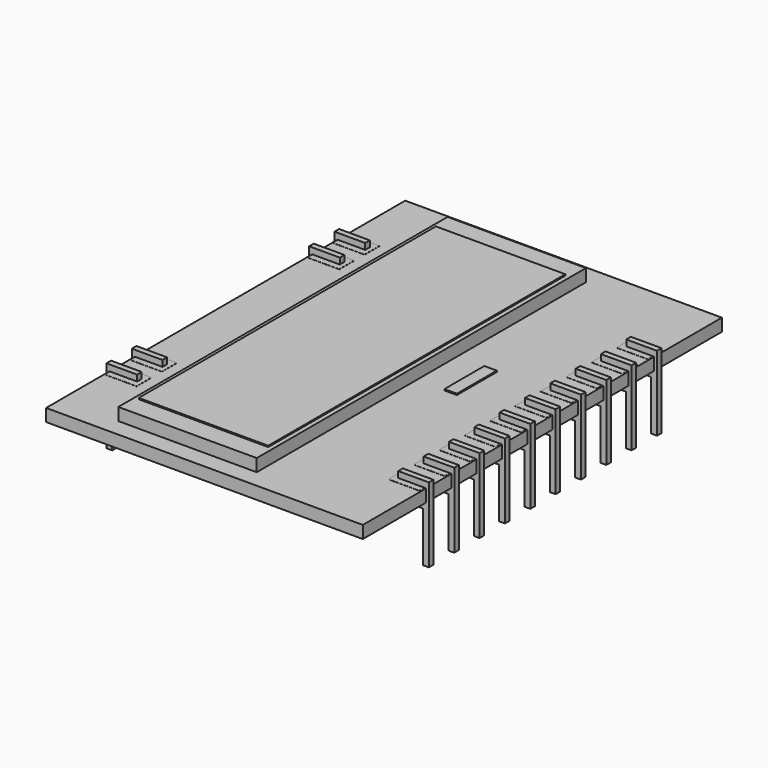
from build123d import *

# Parameters (mm, degrees)
SKETCH_W                  = 25.4
SKETCH_H                  = 36
PAD_DEPTH                 = 1
BOX_W                     = 2.5
BOX_H                     = 1.5
BOX_DEPTH                 = 0.3
PAD001_DEPTH              = 0.46
BOX001_W                  = 2.5
BOX001_H                  = 1.5
BOX001_DEPTH              = 0.3
PAD002_DEPTH              = 0.46
BOX002_W                  = 2.5
BOX002_H                  = 1.5
BOX002_DEPTH              = 0.3
PAD003_DEPTH              = 0.46
FUSION002_PLACEMENT_ANGLE = 180
BOX003_W                  = 11.1
BOX003_H                  = 33
BOX003_DEPTH              = 1.2
BOX004_W                  = 10.385
BOX004_H                  = 29.78
BOX004_DEPTH              = 0.3
BOX005_W                  = 1
BOX005_H                  = 4
BOX005_DEPTH              = 0.3
BOX006_W                  = 2.5
BOX006_H                  = 1.5
BOX006_DEPTH              = 0.3
PAD004_DEPTH              = 0.46
BOX007_W                  = 2.5
BOX007_H                  = 1.5
BOX007_DEPTH              = 0.3
PAD005_DEPTH              = 0.46
BOX008_W                  = 2.5
BOX008_H                  = 1.5
BOX008_DEPTH              = 0.3
PAD006_DEPTH              = 0.46
FUSION005_PLACEMENT_ANGLE = 180
BOX009_W                  = 2.5
BOX009_H                  = 1.5
BOX009_DEPTH              = 0.3
PAD007_DEPTH              = 0.46
FUSION006_PLACEMENT_ANGLE = 180
BOX010_W                  = 2.5
BOX010_H                  = 1.5
BOX010_DEPTH              = 0.3
PAD008_DEPTH              = 0.46
FUSION007_PLACEMENT_ANGLE = 180
BOX011_W                  = 2.5
BOX011_H                  = 1.5
BOX011_DEPTH              = 0.3
PAD009_DEPTH              = 0.46
FUSION008_PLACEMENT_ANGLE = 180
BOX012_W                  = 2.5
BOX012_H                  = 1.5
BOX012_DEPTH              = 0.3
PAD010_DEPTH              = 0.46
FUSION009_PLACEMENT_ANGLE = 180
BOX013_W                  = 2.5
BOX013_H                  = 1.5
BOX013_DEPTH              = 0.3
PAD011_DEPTH              = 0.46
FUSION010_PLACEMENT_ANGLE = 180
BOX014_W                  = 2.5
BOX014_H                  = 1.5
BOX014_DEPTH              = 0.3
PAD012_DEPTH              = 0.46
FUSION011_PLACEMENT_ANGLE = 180
BOX015_W                  = 2.5
BOX015_H                  = 1.5
BOX015_DEPTH              = 0.3
PAD013_DEPTH              = 0.46
FUSION012_PLACEMENT_ANGLE = 180
BOX016_W                  = 2.5
BOX016_H                  = 1.5
BOX016_DEPTH              = 0.3
PAD014_DEPTH              = 0.46
FUSION013_PLACEMENT_ANGLE = 180


with BuildPart() as body:
    # Sketch → Pad (new body)
    with BuildSketch(Plane.XY):
        with Locations((12.7, -11.43)):
            Rectangle(SKETCH_W, SKETCH_H)
    extrude(amount=PAD_DEPTH)


with BuildPart() as kub:
    # Box → Box (new body)
    with BuildSketch(Plane(origin=(0.1, -0.75, 0.71), x_dir=(1, 0, 0), z_dir=(0, 0, 1))):
        with Locations((1.25, 0.75)):
            Rectangle(BOX_W, BOX_H)
    extrude(amount=BOX_DEPTH)


with BuildPart() as pin001:
    # Sketch001 → Pad001 (new body)
    with BuildSketch(Plane.XZ):
        Polygon((2.23, 0.5), (2.23, 1), (-0.23, 1), (-0.23, -5), (0.23, -5), (0.23, -1), (2.23, -1), (2.23, -0.5), (0.23, -0.5), (0.23, 0.5), align=None)
    extrude(amount=PAD001_DEPTH)


with BuildPart() as pin001_1:
    # Body001 placement: moved
    add(pin001.part.moved(Location((0, 0.23, 0.5))))

    # Fusion: union Kub
    add(kub.part)


with BuildPart() as kub001:
    # Box001 → Box001 (new body)
    with BuildSketch(Plane(origin=(0.1, -0.75, 0.71), x_dir=(1, 0, 0), z_dir=(0, 0, 1))):
        with Locations((1.25, 0.75)):
            Rectangle(BOX001_W, BOX001_H)
    extrude(amount=BOX001_DEPTH)


with BuildPart() as pin009:
    # Sketch002 → Pad002 (new body)
    with BuildSketch(Plane.XZ):
        Polygon((2.23, 0.5), (2.23, 1), (-0.23, 1), (-0.23, -5), (0.23, -5), (0.23, -1), (2.23, -1), (2.23, -0.5), (0.23, -0.5), (0.23, 0.5), align=None)
    extrude(amount=PAD002_DEPTH)


with BuildPart() as pin009_1:
    # Body002 placement: moved
    add(pin009.part.moved(Location((0, 0.23, 0.5))))

    # Fusion001: union Kub001
    add(kub001.part)


with BuildPart() as pin009_2:
    # Fusion001 placement: moved
    add(pin009_1.part.moved(Location((0, -20.32, 0))))


with BuildPart() as kub002:
    # Box002 → Box002 (new body)
    with BuildSketch(Plane(origin=(0.1, -0.75, 0.71), x_dir=(1, 0, 0), z_dir=(0, 0, 1))):
        with Locations((1.25, 0.75)):
            Rectangle(BOX002_W, BOX002_H)
    extrude(amount=BOX002_DEPTH)


with BuildPart() as pin011:
    # Sketch003 → Pad003 (new body)
    with BuildSketch(Plane.XZ):
        Polygon((2.23, 0.5), (2.23, 1), (-0.23, 1), (-0.23, -5), (0.23, -5), (0.23, -1), (2.23, -1), (2.23, -0.5), (0.23, -0.5), (0.23, 0.5), align=None)
    extrude(amount=PAD003_DEPTH)


with BuildPart() as pin011_1:
    # Body003 placement: moved
    add(pin011.part.moved(Location((0, 0.23, 0.5))))

    # Fusion002: union Kub002
    add(kub002.part)


with BuildPart() as pin011_2:
    # Fusion002 placement: moved
    add(pin011_1.part.moved(Location((25.4, -22.86, 0))).rotate(Axis((25.4, -22.86, 0), (0, 0, 1)), FUSION002_PLACEMENT_ANGLE))


with BuildPart() as displaybase:
    # Box003 → Box003 (new body)
    with BuildSketch(Plane(origin=(4.65, -28, 0.8), x_dir=(1, 0, 0), z_dir=(0, 0, 1))):
        with Locations((5.55, 16.5)):
            Rectangle(BOX003_W, BOX003_H)
    extrude(amount=BOX003_DEPTH)


with BuildPart() as display:
    # Box004 → Box004 (new body)
    with BuildSketch(Plane(origin=(5, -26.39, 1.8), x_dir=(1, 0, 0), z_dir=(0, 0, 1))):
        with Locations((5.1925, 14.89)):
            Rectangle(BOX004_W, BOX004_H)
    extrude(amount=BOX004_DEPTH)


with BuildPart() as kub003:
    # Box005 → Box005 (new body)
    with BuildSketch(Plane(origin=(18, -12, 0.8), x_dir=(1, 0, 0), z_dir=(0, 0, 1))):
        with Locations((0.5, 2)):
            Rectangle(BOX005_W, BOX005_H)
    extrude(amount=BOX005_DEPTH)


with BuildPart() as kub004:
    # Box006 → Box006 (new body)
    with BuildSketch(Plane(origin=(0.1, -0.75, 0.71), x_dir=(1, 0, 0), z_dir=(0, 0, 1))):
        with Locations((1.25, 0.75)):
            Rectangle(BOX006_W, BOX006_H)
    extrude(amount=BOX006_DEPTH)


with BuildPart() as pin006:
    # Sketch004 → Pad004 (new body)
    with BuildSketch(Plane.XZ):
        Polygon((2.23, 0.5), (2.23, 1), (-0.23, 1), (-0.23, -5), (0.23, -5), (0.23, -1), (2.23, -1), (2.23, -0.5), (0.23, -0.5), (0.23, 0.5), align=None)
    extrude(amount=PAD004_DEPTH)


with BuildPart() as pin006_1:
    # Body004 placement: moved
    add(pin006.part.moved(Location((0, 0.23, 0.5))))

    # Fusion003: union Kub004
    add(kub004.part)


with BuildPart() as pin006_2:
    # Fusion003 placement: moved
    add(pin006_1.part.moved(Location((0, -2.54, 0))))


with BuildPart() as kub005:
    # Box007 → Box007 (new body)
    with BuildSketch(Plane(origin=(0.1, -0.75, 0.71), x_dir=(1, 0, 0), z_dir=(0, 0, 1))):
        with Locations((1.25, 0.75)):
            Rectangle(BOX007_W, BOX007_H)
    extrude(amount=BOX007_DEPTH)


with BuildPart() as pin010:
    # Sketch005 → Pad005 (new body)
    with BuildSketch(Plane.XZ):
        Polygon((2.23, 0.5), (2.23, 1), (-0.23, 1), (-0.23, -5), (0.23, -5), (0.23, -1), (2.23, -1), (2.23, -0.5), (0.23, -0.5), (0.23, 0.5), align=None)
    extrude(amount=PAD005_DEPTH)


with BuildPart() as pin010_1:
    # Body005 placement: moved
    add(pin010.part.moved(Location((0, 0.23, 0.5))))

    # Fusion004: union Kub005
    add(kub005.part)


with BuildPart() as pin010_2:
    # Fusion004 placement: moved
    add(pin010_1.part.moved(Location((0, -22.86, 0))))


with BuildPart() as kub006:
    # Box008 → Box008 (new body)
    with BuildSketch(Plane(origin=(0.1, -0.75, 0.71), x_dir=(1, 0, 0), z_dir=(0, 0, 1))):
        with Locations((1.25, 0.75)):
            Rectangle(BOX008_W, BOX008_H)
    extrude(amount=BOX008_DEPTH)


with BuildPart() as pin013:
    # Sketch006 → Pad006 (new body)
    with BuildSketch(Plane.XZ):
        Polygon((2.23, 0.5), (2.23, 1), (-0.23, 1), (-0.23, -5), (0.23, -5), (0.23, -1), (2.23, -1), (2.23, -0.5), (0.23, -0.5), (0.23, 0.5), align=None)
    extrude(amount=PAD006_DEPTH)


with BuildPart() as pin013_1:
    # Body006 placement: moved
    add(pin013.part.moved(Location((0, 0.23, 0.5))))

    # Fusion005: union Kub006
    add(kub006.part)


with BuildPart() as pin013_2:
    # Fusion005 placement: moved
    add(pin013_1.part.moved(Location((25.4, -20.32, 0))).rotate(Axis((25.4, -20.32, 0), (0, 0, 1)), FUSION005_PLACEMENT_ANGLE))


with BuildPart() as kub007:
    # Box009 → Box009 (new body)
    with BuildSketch(Plane(origin=(0.1, -0.75, 0.71), x_dir=(1, 0, 0), z_dir=(0, 0, 1))):
        with Locations((1.25, 0.75)):
            Rectangle(BOX009_W, BOX009_H)
    extrude(amount=BOX009_DEPTH)


with BuildPart() as pin015:
    # Sketch007 → Pad007 (new body)
    with BuildSketch(Plane.XZ):
        Polygon((2.23, 0.5), (2.23, 1), (-0.23, 1), (-0.23, -5), (0.23, -5), (0.23, -1), (2.23, -1), (2.23, -0.5), (0.23, -0.5), (0.23, 0.5), align=None)
    extrude(amount=PAD007_DEPTH)


with BuildPart() as pin015_1:
    # Body007 placement: moved
    add(pin015.part.moved(Location((0, 0.23, 0.5))))

    # Fusion006: union Kub007
    add(kub007.part)


with BuildPart() as pin015_2:
    # Fusion006 placement: moved
    add(pin015_1.part.moved(Location((25.4, -17.78, 0))).rotate(Axis((25.4, -17.78, 0), (0, 0, 1)), FUSION006_PLACEMENT_ANGLE))


with BuildPart() as kub008:
    # Box010 → Box010 (new body)
    with BuildSketch(Plane(origin=(0.1, -0.75, 0.71), x_dir=(1, 0, 0), z_dir=(0, 0, 1))):
        with Locations((1.25, 0.75)):
            Rectangle(BOX010_W, BOX010_H)
    extrude(amount=BOX010_DEPTH)


with BuildPart() as pin017:
    # Sketch008 → Pad008 (new body)
    with BuildSketch(Plane.XZ):
        Polygon((2.23, 0.5), (2.23, 1), (-0.23, 1), (-0.23, -5), (0.23, -5), (0.23, -1), (2.23, -1), (2.23, -0.5), (0.23, -0.5), (0.23, 0.5), align=None)
    extrude(amount=PAD008_DEPTH)


with BuildPart() as pin017_1:
    # Body008 placement: moved
    add(pin017.part.moved(Location((0, 0.23, 0.5))))

    # Fusion007: union Kub008
    add(kub008.part)


with BuildPart() as pin017_2:
    # Fusion007 placement: moved
    add(pin017_1.part.moved(Location((25.4, -15.24, 0))).rotate(Axis((25.4, -15.24, 0), (0, 0, 1)), FUSION007_PLACEMENT_ANGLE))


with BuildPart() as kub009:
    # Box011 → Box011 (new body)
    with BuildSketch(Plane(origin=(0.1, -0.75, 0.71), x_dir=(1, 0, 0), z_dir=(0, 0, 1))):
        with Locations((1.25, 0.75)):
            Rectangle(BOX011_W, BOX011_H)
    extrude(amount=BOX011_DEPTH)


with BuildPart() as pin019:
    # Sketch009 → Pad009 (new body)
    with BuildSketch(Plane.XZ):
        Polygon((2.23, 0.5), (2.23, 1), (-0.23, 1), (-0.23, -5), (0.23, -5), (0.23, -1), (2.23, -1), (2.23, -0.5), (0.23, -0.5), (0.23, 0.5), align=None)
    extrude(amount=PAD009_DEPTH)


with BuildPart() as pin019_1:
    # Body009 placement: moved
    add(pin019.part.moved(Location((0, 0.23, 0.5))))

    # Fusion008: union Kub009
    add(kub009.part)


with BuildPart() as pin019_2:
    # Fusion008 placement: moved
    add(pin019_1.part.moved(Location((25.4, -12.7, 0))).rotate(Axis((25.4, -12.7, 0), (0, 0, 1)), FUSION008_PLACEMENT_ANGLE))


with BuildPart() as kub010:
    # Box012 → Box012 (new body)
    with BuildSketch(Plane(origin=(0.1, -0.75, 0.71), x_dir=(1, 0, 0), z_dir=(0, 0, 1))):
        with Locations((1.25, 0.75)):
            Rectangle(BOX012_W, BOX012_H)
    extrude(amount=BOX012_DEPTH)


with BuildPart() as pin021:
    # Sketch010 → Pad010 (new body)
    with BuildSketch(Plane.XZ):
        Polygon((2.23, 0.5), (2.23, 1), (-0.23, 1), (-0.23, -5), (0.23, -5), (0.23, -1), (2.23, -1), (2.23, -0.5), (0.23, -0.5), (0.23, 0.5), align=None)
    extrude(amount=PAD010_DEPTH)


with BuildPart() as pin021_1:
    # Body010 placement: moved
    add(pin021.part.moved(Location((0, 0.23, 0.5))))

    # Fusion009: union Kub010
    add(kub010.part)


with BuildPart() as pin021_2:
    # Fusion009 placement: moved
    add(pin021_1.part.moved(Location((25.4, -10.16, 0))).rotate(Axis((25.4, -10.16, 0), (0, 0, 1)), FUSION009_PLACEMENT_ANGLE))


with BuildPart() as kub011:
    # Box013 → Box013 (new body)
    with BuildSketch(Plane(origin=(0.1, -0.75, 0.71), x_dir=(1, 0, 0), z_dir=(0, 0, 1))):
        with Locations((1.25, 0.75)):
            Rectangle(BOX013_W, BOX013_H)
    extrude(amount=BOX013_DEPTH)


with BuildPart() as pin023:
    # Sketch011 → Pad011 (new body)
    with BuildSketch(Plane.XZ):
        Polygon((2.23, 0.5), (2.23, 1), (-0.23, 1), (-0.23, -5), (0.23, -5), (0.23, -1), (2.23, -1), (2.23, -0.5), (0.23, -0.5), (0.23, 0.5), align=None)
    extrude(amount=PAD011_DEPTH)


with BuildPart() as pin023_1:
    # Body011 placement: moved
    add(pin023.part.moved(Location((0, 0.23, 0.5))))

    # Fusion010: union Kub011
    add(kub011.part)


with BuildPart() as pin023_2:
    # Fusion010 placement: moved
    add(pin023_1.part.moved(Location((25.4, -7.62, 0))).rotate(Axis((25.4, -7.62, 0), (0, 0, 1)), FUSION010_PLACEMENT_ANGLE))


with BuildPart() as kub012:
    # Box014 → Box014 (new body)
    with BuildSketch(Plane(origin=(0.1, -0.75, 0.71), x_dir=(1, 0, 0), z_dir=(0, 0, 1))):
        with Locations((1.25, 0.75)):
            Rectangle(BOX014_W, BOX014_H)
    extrude(amount=BOX014_DEPTH)


with BuildPart() as pin025:
    # Sketch012 → Pad012 (new body)
    with BuildSketch(Plane.XZ):
        Polygon((2.23, 0.5), (2.23, 1), (-0.23, 1), (-0.23, -5), (0.23, -5), (0.23, -1), (2.23, -1), (2.23, -0.5), (0.23, -0.5), (0.23, 0.5), align=None)
    extrude(amount=PAD012_DEPTH)


with BuildPart() as pin025_1:
    # Body012 placement: moved
    add(pin025.part.moved(Location((0, 0.23, 0.5))))

    # Fusion011: union Kub012
    add(kub012.part)


with BuildPart() as pin025_2:
    # Fusion011 placement: moved
    add(pin025_1.part.moved(Location((25.4, -5.08, 0))).rotate(Axis((25.4, -5.08, 0), (0, 0, 1)), FUSION011_PLACEMENT_ANGLE))


with BuildPart() as kub013:
    # Box015 → Box015 (new body)
    with BuildSketch(Plane(origin=(0.1, -0.75, 0.71), x_dir=(1, 0, 0), z_dir=(0, 0, 1))):
        with Locations((1.25, 0.75)):
            Rectangle(BOX015_W, BOX015_H)
    extrude(amount=BOX015_DEPTH)


with BuildPart() as pin027:
    # Sketch013 → Pad013 (new body)
    with BuildSketch(Plane.XZ):
        Polygon((2.23, 0.5), (2.23, 1), (-0.23, 1), (-0.23, -5), (0.23, -5), (0.23, -1), (2.23, -1), (2.23, -0.5), (0.23, -0.5), (0.23, 0.5), align=None)
    extrude(amount=PAD013_DEPTH)


with BuildPart() as pin027_1:
    # Body013 placement: moved
    add(pin027.part.moved(Location((0, 0.23, 0.5))))

    # Fusion012: union Kub013
    add(kub013.part)


with BuildPart() as pin027_2:
    # Fusion012 placement: moved
    add(pin027_1.part.moved(Location((25.4, -2.54, 0))).rotate(Axis((25.4, -2.54, 0), (0, 0, 1)), FUSION012_PLACEMENT_ANGLE))


with BuildPart() as kub014:
    # Box016 → Box016 (new body)
    with BuildSketch(Plane(origin=(0.1, -0.75, 0.71), x_dir=(1, 0, 0), z_dir=(0, 0, 1))):
        with Locations((1.25, 0.75)):
            Rectangle(BOX016_W, BOX016_H)
    extrude(amount=BOX016_DEPTH)


with BuildPart() as pin029:
    # Sketch014 → Pad014 (new body)
    with BuildSketch(Plane.XZ):
        Polygon((2.23, 0.5), (2.23, 1), (-0.23, 1), (-0.23, -5), (0.23, -5), (0.23, -1), (2.23, -1), (2.23, -0.5), (0.23, -0.5), (0.23, 0.5), align=None)
    extrude(amount=PAD014_DEPTH)


with BuildPart() as pin029_1:
    # Body014 placement: moved
    add(pin029.part.moved(Location((0, 0.23, 0.5))))

    # Fusion013: union Kub014
    add(kub014.part)


with BuildPart() as pin029_2:
    # Fusion013 placement: moved
    add(pin029_1.part.moved(Location((25.4, 0, 0))).rotate(Axis((25.4, 0, 0), (0, 0, 1)), FUSION013_PLACEMENT_ANGLE))


solid = Compound([body.part, pin001_1.part, pin009_2.part, pin011_2.part, displaybase.part, display.part, kub003.part, pin006_2.part, pin010_2.part, pin013_2.part, pin015_2.part, pin017_2.part, pin019_2.part, pin021_2.part, pin023_2.part, pin025_2.part, pin027_2.part, pin029_2.part])
